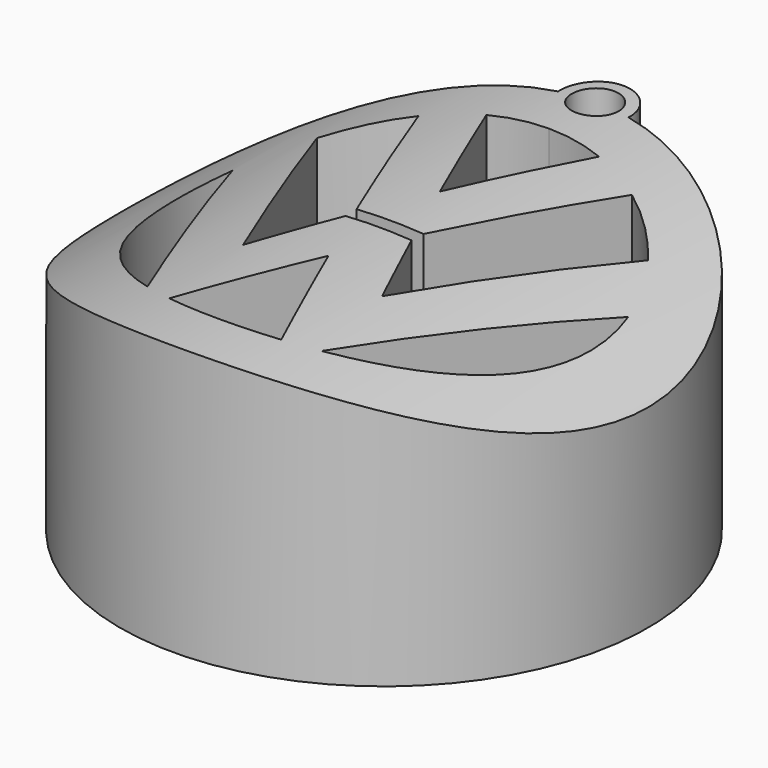
from build123d import *

# Parameters (mm, degrees)
F0_R     = 2
F1_DEPTH = 25
F3_DEPTH = 29.5


with BuildPart() as f1:
    # F0 (on Top) → F1 (new body)
    with BuildSketch(Plane.XY):
        with BuildLine():
            ThreePointArc((2.993309, 22.271687), (0, 25.471937), (-2.993309, 22.271687))
            ThreePointArc((-2.993309, 22.271687), (0, -22.471937), (2.993309, 22.271687))
        make_face()
        with BuildLine():
            Line((-4.766043, -16.90091), (0, -5.909285))
            Line((0, -5.909285), (4.766043, -16.90091))
            ThreePointArc((4.766043, -16.90091), (2.405704, -17.394496), (0, -17.560066))
            ThreePointArc((0, -17.560066), (-2.405704, -17.394496), (-4.766043, -16.90091))
        make_face(mode=Mode.SUBTRACT)
        with BuildLine():
            ThreePointArc((-7.413827, -15.918262), (-15.996416, -7.243657), (-16.854101, 4.929016))
            Line((-16.854101, 4.929016), (-7.413827, -15.918262))
        make_face(mode=Mode.SUBTRACT)
        with BuildLine():
            Line((7.413827, -15.918262), (16.854101, 4.929016))
            ThreePointArc((16.854101, 4.929016), (15.996416, -7.243657), (7.413827, -15.918262))
        make_face(mode=Mode.SUBTRACT)
        with BuildLine():
            ThreePointArc((-14.089574, 10.480449), (-11.809122, 12.996175), (-9.08713, 15.025977))
            Line((-9.08713, 15.025977), (-2.853133, 0.640048))
            Line((-2.853133, 0.640048), (0, 0.640048))
            Line((0, 0.640048), (2.853133, 0.640048))
            Line((2.853133, 0.640048), (9.08713, 15.025977))
            ThreePointArc((9.08713, 15.025977), (11.809122, 12.996175), (14.089574, 10.480449))
            Line((14.089574, 10.480449), (5.919134, -7.606121))
            Line((5.919134, -7.606121), (2.806974, -0.579698))
            Line((2.806974, -0.579698), (0, -0.579698))
            Line((0, -0.579698), (-2.806974, -0.579698))
            Line((-2.806974, -0.579698), (-5.919134, -7.606121))
            Line((-5.919134, -7.606121), (-14.089574, 10.480449))
        make_face(mode=Mode.SUBTRACT)
        with BuildLine():
            Line((0, 5.937309), (-4.799841, 16.891342))
            ThreePointArc((-4.799841, 16.891342), (-2.423101, 17.392081), (0, 17.560066))
            ThreePointArc((0, 17.560066), (2.423101, 17.392081), (4.799841, 16.891342))
            Line((4.799841, 16.891342), (0, 5.937309))
        make_face(mode=Mode.SUBTRACT)
        with Locations((0, 22.471937)):
            Circle(F0_R, mode=Mode.SUBTRACT)
    extrude(amount=F1_DEPTH)

    # F2 (on Front) → F3 (cut, symmetric)
    with BuildSketch(Plane.XZ):
        with BuildLine():
            ThreePointArc((-25, 14.797118), (0, 22.984089), (25, 14.797118))
            Line((25, 14.797118), (25.056494, 26.376059))
            Line((25.056494, 26.376059), (-25, 26.376059))
            Line((-25, 26.376059), (-25, 14.797118))
        make_face()
    extrude(amount=F3_DEPTH, both=True, mode=Mode.SUBTRACT)


solid = f1.part
